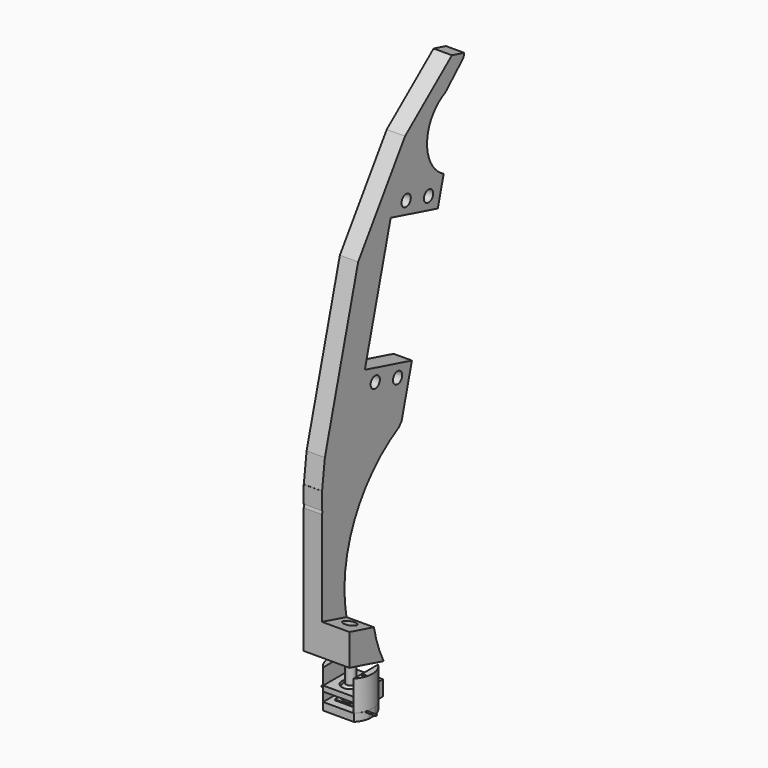
from build123d import *

# Parameters (mm, degrees)
CYLINDER002_R               = 0.25
CYLINDER002_DEPTH           = 10
CYLINDER002_PITCH_ANGLE     = 90
CYLINDER001_R               = 0.25
CYLINDER001_DEPTH           = 10
CYLINDER001_PITCH_ANGLE     = 90
BOX_W                       = 6.5
BOX_H                       = 4.8
BOX_DEPTH                   = 1
BOX004_W                    = 10
BOX004_H                    = 3
BOX004_DEPTH                = 5
CYLINDER_R                  = 1.5
CYLINDER_DEPTH              = 10
CYLINDER008_R               = 7.1
CYLINDER008_DEPTH           = 10
BOX005_W                    = 21
BOX005_H                    = 17
BOX005_DEPTH                = 8
CYLINDER005_R               = 2.5
CYLINDER005_DEPTH           = 10
CYLINDER004_R               = 0.25
CYLINDER004_DEPTH           = 10
CYLINDER004_PITCH_ANGLE     = 90
CYLINDER003_R               = 0.25
CYLINDER003_DEPTH           = 10
CYLINDER003_PITCH_ANGLE     = 90
BOX002_W                    = 6.5
BOX002_H                    = 4.8
BOX002_DEPTH                = 1
BOX003_W                    = 10
BOX003_H                    = 12
BOX003_DEPTH                = 3
BOX001_W                    = 14
BOX001_H                    = 10
BOX001_DEPTH                = 7.25
CYLINDER010_R               = 0.5
CYLINDER010_DEPTH           = 13
CYLINDER009_R               = 0.5
CYLINDER009_DEPTH           = 13
CYLINDER007_R               = 7.1
CYLINDER007_DEPTH           = 10
BOX006_W                    = 21
BOX006_H                    = 17
BOX006_DEPTH                = 12
BOX007_W                    = 10
BOX007_H                    = 20
BOX007_DEPTH                = 10
CYLINDER006_R               = 7.1
CYLINDER006_DEPTH           = 10
CYLINDER018_R               = 2
CYLINDER018_DEPTH           = 18
CYLINDER018_PITCH_ANGLE     = 90
CYLINDER018_PLACEMENT_ANGLE = 17
BOX022_W                    = 65
BOX022_H                    = 11
BOX022_DEPTH                = 20
BOX022_PLACEMENT_ANGLE      = 15
CYLINDER017_R               = 43
CYLINDER017_DEPTH           = 19
BOX020_W                    = 10
BOX020_H                    = 21
BOX020_DEPTH                = 10
BOX021_W                    = 26
BOX021_H                    = 23
BOX021_DEPTH                = 13
CYLINDER011_R               = 1.9
CYLINDER011_DEPTH           = 12
CYLINDER012_R               = 1.9
CYLINDER012_DEPTH           = 12
CYLINDER013_R               = 1.9
CYLINDER013_DEPTH           = 12
CYLINDER014_R               = 1.9
CYLINDER014_DEPTH           = 12
BOX008_W                    = 41
BOX008_H                    = 20
BOX008_DEPTH                = 12
BOX019_W                    = 10
BOX019_H                    = 10
BOX019_DEPTH                = 10
BOX019_PLACEMENT_ANGLE      = 8
BOX018_W                    = 14
BOX018_H                    = 10
BOX018_DEPTH                = 10
BOX018_PLACEMENT_ANGLE      = 16
BOX017_W                    = 65
BOX017_H                    = 11
BOX017_DEPTH                = 10
BOX017_PLACEMENT_ANGLE      = 15
BOX016_W                    = 76
BOX016_H                    = 10
BOX016_DEPTH                = 10
BOX015_W                    = 49
BOX015_H                    = 10
BOX015_DEPTH                = 10
BOX015_PLACEMENT_ANGLE      = -19
BOX014_W                    = 53
BOX014_H                    = 10
BOX014_DEPTH                = 10
BOX014_PLACEMENT_ANGLE      = -36
BOX013_W                    = 13
BOX013_H                    = 11
BOX013_DEPTH                = 10
BOX012_W                    = 23
BOX012_H                    = 17
BOX012_DEPTH                = 10
BOX011_W                    = 41
BOX011_H                    = 6
BOX011_DEPTH                = 10
CYLINDER016_R               = 43
CYLINDER016_DEPTH           = 10
CYLINDER015_R               = 13
CYLINDER015_DEPTH           = 10
BOX010_W                    = 37
BOX010_H                    = 8
BOX010_DEPTH                = 12
BOX009_W                    = 184
BOX009_H                    = 34
BOX009_DEPTH                = 6
CHAMFER_SIZE                = 6
CHAMFER001_SIZE             = 1
FUSION007_ROLL_ANGLE        = -90
FUSION007_PITCH_ANGLE       = 75
FUSION007_PLACEMENT_ANGLE   = -90


with BuildPart() as cylinder002:
    # Cylinder002 → Cylinder002 (new body)
    with BuildSketch(Plane.XY):
        Circle(CYLINDER002_R)
    extrude(amount=CYLINDER002_DEPTH)


with BuildPart() as cylinder002_1:
    # Cylinder002 pitch: moved
    add(cylinder002.part.rotate(Axis((0, 0, 0), (0, 1, 0)), CYLINDER002_PITCH_ANGLE))


with BuildPart() as cylinder002_2:
    # Cylinder002 placement: moved
    add(cylinder002_1.part.moved(Location((0, -2, -3.7))))


with BuildPart() as fusion002:
    # Cylinder001 → Cylinder001 (new body)
    with BuildSketch(Plane.XY):
        Circle(CYLINDER001_R)
    extrude(amount=CYLINDER001_DEPTH)


with BuildPart() as fusion002_1:
    # Cylinder001 pitch: moved
    add(fusion002.part.rotate(Axis((0, 0, 0), (0, 1, 0)), CYLINDER001_PITCH_ANGLE))


with BuildPart() as fusion002_2:
    # Cylinder001 placement: moved
    add(fusion002_1.part.moved(Location((-11, 2, -3.7))))

    # Fusion002: union Cylinder002
    add(cylinder002_2.part)


with BuildPart() as switch:
    # Box → Box (new body)
    with BuildSketch(Plane(origin=(-3.25, -2.4, -4.2), x_dir=(1, 0, 0), z_dir=(0, 0, 1))):
        with Locations((3.25, 2.4)):
            Rectangle(BOX_W, BOX_H)
    extrude(amount=BOX_DEPTH)

    # Fusion003: union Fusion002
    add(fusion002_2.part)


with BuildPart() as cube004:
    # Box004 → Box004 (new body)
    with BuildSketch(Plane(origin=(-5, 4, -3.55), x_dir=(1, 0, 0), z_dir=(0, 0, 1))):
        with Locations((5, 1.5)):
            Rectangle(BOX004_W, BOX004_H)
    extrude(amount=BOX004_DEPTH)


with BuildPart() as cylinder:
    # Cylinder → Cylinder (new body)
    with BuildSketch(Plane.XY):
        Circle(CYLINDER_R)
    extrude(amount=CYLINDER_DEPTH)


with BuildPart() as ball_and_screw:
    # Sphere → Sphere (revolve)
    with BuildSketch(Plane.XZ):
        with BuildLine():
            ThreePointArc((0, -3), (3, 0), (0, 3))
            Line((0, 3), (0, -3))
        make_face()
    revolve(axis=Axis((0, 0, 0), (0, 0, 1)))

    # Fusion005: union Cylinder
    add(cylinder.part)


with BuildPart() as ball_and_screw_1:
    # Fusion005 placement: moved
    add(ball_and_screw.part.moved(Location((0, 0, -1))))


with BuildPart() as cylinder008:
    # Cylinder008 → Cylinder008 (new body)
    with BuildSketch(Plane.XY.offset(-6.5)):
        Circle(CYLINDER008_R)
    extrude(amount=CYLINDER008_DEPTH)


with BuildPart() as cube005:
    # Box005 → Box005 (new body)
    with BuildSketch(Plane(origin=(-9, -7, -3.5), x_dir=(1, 0, 0), z_dir=(0, 0, 1))):
        with Locations((10.5, 8.5)):
            Rectangle(BOX005_W, BOX005_H)
    extrude(amount=BOX005_DEPTH)


with BuildPart() as cylinder005:
    # Cylinder005 → Cylinder005 (new body)
    with BuildSketch(Plane.XY.offset(0.5)):
        Circle(CYLINDER005_R)
    extrude(amount=CYLINDER005_DEPTH)


with BuildPart() as fusion004:
    # Sphere001 → Sphere001 (revolve)
    with BuildSketch(Plane.XZ):
        with BuildLine():
            ThreePointArc((0, -3.1), (3.1, 0), (0, 3.1))
            Line((0, 3.1), (0, -3.1))
        make_face()
    revolve(axis=Axis((0, 0, 0), (0, 0, 1)))

    # Fusion004: union Cylinder005
    add(cylinder005.part)


with BuildPart() as cylinder004:
    # Cylinder004 → Cylinder004 (new body)
    with BuildSketch(Plane.XY):
        Circle(CYLINDER004_R)
    extrude(amount=CYLINDER004_DEPTH)


with BuildPart() as cylinder004_1:
    # Cylinder004 pitch: moved
    add(cylinder004.part.rotate(Axis((0, 0, 0), (0, 1, 0)), CYLINDER004_PITCH_ANGLE))


with BuildPart() as cylinder004_2:
    # Cylinder004 placement: moved
    add(cylinder004_1.part.moved(Location((0, -2, -3.7))))


with BuildPart() as fusion:
    # Cylinder003 → Cylinder003 (new body)
    with BuildSketch(Plane.XY):
        Circle(CYLINDER003_R)
    extrude(amount=CYLINDER003_DEPTH)


with BuildPart() as fusion_1:
    # Cylinder003 pitch: moved
    add(fusion.part.rotate(Axis((0, 0, 0), (0, 1, 0)), CYLINDER003_PITCH_ANGLE))


with BuildPart() as fusion_2:
    # Cylinder003 placement: moved
    add(fusion_1.part.moved(Location((-11, 2, -3.7))))

    # Fusion: union Cylinder004
    add(cylinder004_2.part)


with BuildPart() as fusion001:
    # Box002 → Box002 (new body)
    with BuildSketch(Plane(origin=(-3.25, -2.4, -4.2), x_dir=(1, 0, 0), z_dir=(0, 0, 1))):
        with Locations((3.25, 2.4)):
            Rectangle(BOX002_W, BOX002_H)
    extrude(amount=BOX002_DEPTH)

    # Fusion001: union Fusion
    add(fusion_2.part)


with BuildPart() as cube003:
    # Box003 → Box003 (new body)
    with BuildSketch(Plane(origin=(-5, -6, -3.5), x_dir=(1, 0, 0), z_dir=(0, 0, 1))):
        with Locations((5, 6)):
            Rectangle(BOX003_W, BOX003_H)
    extrude(amount=BOX003_DEPTH)


with BuildPart() as cut001:
    # Box001 → Box001 (new body)
    with BuildSketch(Plane(origin=(-7, -5, -6), x_dir=(1, 0, 0), z_dir=(0, 0, 1))):
        with Locations((7, 5)):
            Rectangle(BOX001_W, BOX001_H)
    extrude(amount=BOX001_DEPTH)

    # Cut: cut Cube003
    add(cube003.part, mode=Mode.SUBTRACT)

    # Cut001: cut Fusion001
    add(fusion001.part, mode=Mode.SUBTRACT)


with BuildPart() as common002:
    # Cut003 base: copy of Cut001
    add(cut001.part)

    # Cut003: cut Fusion004
    add(fusion004.part, mode=Mode.SUBTRACT)

    # Cut004: cut Cube005
    add(cube005.part, mode=Mode.SUBTRACT)

    # Common002: intersect Cylinder008
    add(cylinder008.part, mode=Mode.INTERSECT)


with BuildPart() as cylinder010:
    # Cylinder010 → Cylinder010 (new body)
    with BuildSketch(Plane(origin=(6, -2, -4), x_dir=(1, 0, 0), z_dir=(0, 0, 1))):
        Circle(CYLINDER010_R)
    extrude(amount=CYLINDER010_DEPTH)


with BuildPart() as cylinder009:
    # Cylinder009 → Cylinder009 (new body)
    with BuildSketch(Plane(origin=(-6, 2, -4), x_dir=(1, 0, 0), z_dir=(0, 0, 1))):
        Circle(CYLINDER009_R)
    extrude(amount=CYLINDER009_DEPTH)


with BuildPart() as cylinder007:
    # Cylinder007 → Cylinder007 (new body)
    with BuildSketch(Plane.XY.offset(-3.5)):
        Circle(CYLINDER007_R)
    extrude(amount=CYLINDER007_DEPTH)


with BuildPart() as cube006:
    # Box006 → Box006 (new body)
    with BuildSketch(Plane(origin=(-9, -7, -3.5), x_dir=(1, 0, 0), z_dir=(0, 0, 1))):
        with Locations((10.5, 8.5)):
            Rectangle(BOX006_W, BOX006_H)
    extrude(amount=BOX006_DEPTH)


with BuildPart() as common001:
    # Cut002 base: copy of Cut001
    add(cut001.part)

    # Cut002: cut Fusion004
    add(fusion004.part, mode=Mode.SUBTRACT)

    # Common: intersect Cube006
    add(cube006.part, mode=Mode.INTERSECT)

    # Common001: intersect Cylinder007
    add(cylinder007.part, mode=Mode.INTERSECT)


with BuildPart() as cube007:
    # Box007 → Box007 (new body)
    with BuildSketch(Plane(origin=(-5, -9, -3.5), x_dir=(1, 0, 0), z_dir=(0, 0, 1))):
        with Locations((5, 10)):
            Rectangle(BOX007_W, BOX007_H)
    extrude(amount=BOX007_DEPTH)


with BuildPart() as cut007:
    # Cylinder006 → Cylinder006 (new body)
    with BuildSketch(Plane.XY.offset(-3.5)):
        Circle(CYLINDER006_R)
    extrude(amount=CYLINDER006_DEPTH)

    # Cut005: cut Cube007
    add(cube007.part, mode=Mode.SUBTRACT)

    # Fusion006: union Common001
    add(common001.part)

    # Cut006: cut Cylinder009
    add(cylinder009.part, mode=Mode.SUBTRACT)

    # Cut007: cut Cylinder010
    add(cylinder010.part, mode=Mode.SUBTRACT)


with BuildPart() as cylinder018:
    # Cylinder018 → Cylinder018 (new body)
    with BuildSketch(Plane.XY):
        Circle(CYLINDER018_R)
    extrude(amount=CYLINDER018_DEPTH)


with BuildPart() as cylinder018_1:
    # Cylinder018 pitch: moved
    add(cylinder018.part.rotate(Axis((0, 0, 0), (0, 1, 0)), CYLINDER018_PITCH_ANGLE))


with BuildPart() as cylinder018_2:
    # Cylinder018 placement: moved
    add(cylinder018_1.part.moved(Location((146.075979, 19.182766, 10))).rotate(Axis((146.075979, 19.182766, 10), (0, 0, 1)), CYLINDER018_PLACEMENT_ANGLE))


with BuildPart() as cube022:
    # Box022 → Box022 (new body)
    with BuildSketch(Plane.XY):
        with Locations((32.5, 5.5)):
            Rectangle(BOX022_W, BOX022_H)
    extrude(amount=BOX022_DEPTH)


with BuildPart() as cube022_1:
    # Box022 placement: moved
    add(cube022.part.moved(Location((115, -7, 0))).rotate(Axis((115, -7, 0), (0, 0, 1)), BOX022_PLACEMENT_ANGLE))


with BuildPart() as cylinder017:
    # Cylinder017 → Cylinder017 (new body)
    with BuildSketch(Plane(origin=(132, 63, 0), x_dir=(1, 0, 0), z_dir=(0, 0, 1))):
        Circle(CYLINDER017_R)
    extrude(amount=CYLINDER017_DEPTH)


with BuildPart() as cut028:
    # Box020 → Box020 (new body)
    with BuildSketch(Plane(origin=(151, 12, 5), x_dir=(1, 0, 0), z_dir=(0, 0, 1))):
        with Locations((5, 10.5)):
            Rectangle(BOX020_W, BOX020_H)
    extrude(amount=BOX020_DEPTH)

    # Cut026: cut Cylinder017
    add(cylinder017.part, mode=Mode.SUBTRACT)

    # Cut027: cut Cube022
    add(cube022_1.part, mode=Mode.SUBTRACT)

    # Cut028: cut Cylinder018
    add(cylinder018_2.part, mode=Mode.SUBTRACT)


with BuildPart() as cube021:
    # Box021 → Box021 (new body)
    with BuildSketch(Plane(origin=(161, 15, -3), x_dir=(1, 0, 0), z_dir=(0, 0, 1))):
        with Locations((13, 11.5)):
            Rectangle(BOX021_W, BOX021_H)
    extrude(amount=BOX021_DEPTH)


with BuildPart() as cylinder011:
    # Cylinder011 → Cylinder011 (new body)
    with BuildSketch(Plane(origin=(38, 19.5, -1), x_dir=(1, 0, 0), z_dir=(0, 0, 1))):
        Circle(CYLINDER011_R)
    extrude(amount=CYLINDER011_DEPTH)


with BuildPart() as cylinder012:
    # Cylinder012 → Cylinder012 (new body)
    with BuildSketch(Plane(origin=(38, 29, -1), x_dir=(1, 0, 0), z_dir=(0, 0, 1))):
        Circle(CYLINDER012_R)
    extrude(amount=CYLINDER012_DEPTH)


with BuildPart() as cylinder013:
    # Cylinder013 → Cylinder013 (new body)
    with BuildSketch(Plane(origin=(87, 29, -1), x_dir=(1, 0, 0), z_dir=(0, 0, 1))):
        Circle(CYLINDER013_R)
    extrude(amount=CYLINDER013_DEPTH)


with BuildPart() as cylinder014:
    # Cylinder014 → Cylinder014 (new body)
    with BuildSketch(Plane(origin=(87, 19.5, -1), x_dir=(1, 0, 0), z_dir=(0, 0, 1))):
        Circle(CYLINDER014_R)
    extrude(amount=CYLINDER014_DEPTH)


with BuildPart() as cube008:
    # Box008 → Box008 (new body)
    with BuildSketch(Plane(origin=(42, 14, -1), x_dir=(1, 0, 0), z_dir=(0, 0, 1))):
        with Locations((20.5, 10)):
            Rectangle(BOX008_W, BOX008_H)
    extrude(amount=BOX008_DEPTH)


with BuildPart() as cube019:
    # Box019 → Box019 (new body)
    with BuildSketch(Plane.XY):
        with Locations((5, 5)):
            Rectangle(BOX019_W, BOX019_H)
    extrude(amount=BOX019_DEPTH)


with BuildPart() as cube019_1:
    # Box019 placement: moved
    add(cube019.part.moved(Location((106, -7, 0))).rotate(Axis((106, -7, 0), (0, 0, 1)), BOX019_PLACEMENT_ANGLE))


with BuildPart() as cube018:
    # Box018 → Box018 (new body)
    with BuildSketch(Plane.XY):
        with Locations((7, 5)):
            Rectangle(BOX018_W, BOX018_H)
    extrude(amount=BOX018_DEPTH)


with BuildPart() as cube018_1:
    # Box018 placement: moved
    add(cube018.part.moved(Location((174, 10, 0))).rotate(Axis((174, 10, 0), (0, 0, 1)), BOX018_PLACEMENT_ANGLE))


with BuildPart() as cube017:
    # Box017 → Box017 (new body)
    with BuildSketch(Plane.XY):
        with Locations((32.5, 5.5)):
            Rectangle(BOX017_W, BOX017_H)
    extrude(amount=BOX017_DEPTH)


with BuildPart() as cube017_1:
    # Box017 placement: moved
    add(cube017.part.moved(Location((115, -7, 0))).rotate(Axis((115, -7, 0), (0, 0, 1)), BOX017_PLACEMENT_ANGLE))


with BuildPart() as cube016:
    # Box016 → Box016 (new body)
    with BuildSketch(Plane(origin=(46, -7, 0), x_dir=(1, 0, 0), z_dir=(0, 0, 1))):
        with Locations((38, 5)):
            Rectangle(BOX016_W, BOX016_H)
    extrude(amount=BOX016_DEPTH)


with BuildPart() as cube015:
    # Box015 → Box015 (new body)
    with BuildSketch(Plane.XY):
        with Locations((24.5, 5)):
            Rectangle(BOX015_W, BOX015_H)
    extrude(amount=BOX015_DEPTH)


with BuildPart() as cube015_1:
    # Box015 placement: moved
    add(cube015.part.moved(Location((16, 5, 0))).rotate(Axis((16, 5, 0), (0, 0, 1)), BOX015_PLACEMENT_ANGLE))


with BuildPart() as cube014:
    # Box014 → Box014 (new body)
    with BuildSketch(Plane.XY):
        with Locations((26.5, 5)):
            Rectangle(BOX014_W, BOX014_H)
    extrude(amount=BOX014_DEPTH)


with BuildPart() as cube014_1:
    # Box014 placement: moved
    add(cube014.part.moved(Location((-16, 28, 0))).rotate(Axis((-16, 28, 0), (0, 0, 1)), BOX014_PLACEMENT_ANGLE))


with BuildPart() as cube013:
    # Box013 → Box013 (new body)
    with BuildSketch(Plane(origin=(0, 8, 0), x_dir=(1, 0, 0), z_dir=(0, 0, 1))):
        with Locations((6.5, 5.5)):
            Rectangle(BOX013_W, BOX013_H)
    extrude(amount=BOX013_DEPTH)


with BuildPart() as cube012:
    # Box012 → Box012 (new body)
    with BuildSketch(Plane(origin=(161, 0, 0), x_dir=(1, 0, 0), z_dir=(0, 0, 1))):
        with Locations((11.5, 8.5)):
            Rectangle(BOX012_W, BOX012_H)
    extrude(amount=BOX012_DEPTH)


with BuildPart() as cube011:
    # Box011 → Box011 (new body)
    with BuildSketch(Plane(origin=(120, 0, 0), x_dir=(1, 0, 0), z_dir=(0, 0, 1))):
        with Locations((20.5, 3)):
            Rectangle(BOX011_W, BOX011_H)
    extrude(amount=BOX011_DEPTH)


with BuildPart() as cylinder016:
    # Cylinder016 → Cylinder016 (new body)
    with BuildSketch(Plane(origin=(132, 63, 0), x_dir=(1, 0, 0), z_dir=(0, 0, 1))):
        Circle(CYLINDER016_R)
    extrude(amount=CYLINDER016_DEPTH)


with BuildPart() as cylinder015:
    # Cylinder015 → Cylinder015 (new body)
    with BuildSketch(Plane(origin=(20, 37, 0), x_dir=(1, 0, 0), z_dir=(0, 0, 1))):
        Circle(CYLINDER015_R)
    extrude(amount=CYLINDER015_DEPTH)


with BuildPart() as cube010:
    # Box010 → Box010 (new body)
    with BuildSketch(Plane.XY):
        with Locations((18.5, 4)):
            Rectangle(BOX010_W, BOX010_H)
    extrude(amount=BOX010_DEPTH)


with BuildPart() as fusion007:
    # Box009 → Box009 (new body)
    with BuildSketch(Plane.XY):
        with Locations((92, 17)):
            Rectangle(BOX009_W, BOX009_H)
    extrude(amount=BOX009_DEPTH)

    # Cut008: cut Cube010
    add(cube010.part, mode=Mode.SUBTRACT)

    # Cut009: cut Cylinder015
    add(cylinder015.part, mode=Mode.SUBTRACT)

    # Cut010: cut Cylinder016
    add(cylinder016.part, mode=Mode.SUBTRACT)

    # Cut011: cut Cube011
    add(cube011.part, mode=Mode.SUBTRACT)

    # Cut012: cut Cube012
    add(cube012.part, mode=Mode.SUBTRACT)

    # Cut013: cut Cube013
    add(cube013.part, mode=Mode.SUBTRACT)

    # Cut014: cut Cube014
    add(cube014_1.part, mode=Mode.SUBTRACT)

    # Cut015: cut Cube015
    add(cube015_1.part, mode=Mode.SUBTRACT)

    # Cut016: cut Cube016
    add(cube016.part, mode=Mode.SUBTRACT)

    # Cut017: cut Cube017
    add(cube017_1.part, mode=Mode.SUBTRACT)

    # Cut018: cut Cube018
    add(cube018_1.part, mode=Mode.SUBTRACT)

    # Cut019: cut Cube019
    add(cube019_1.part, mode=Mode.SUBTRACT)

    # Cut020: cut Cube008
    add(cube008.part, mode=Mode.SUBTRACT)

    # Cut021: cut Cylinder014
    add(cylinder014.part, mode=Mode.SUBTRACT)

    # Cut022: cut Cylinder013
    add(cylinder013.part, mode=Mode.SUBTRACT)

    # Cut023: cut Cylinder012
    add(cylinder012.part, mode=Mode.SUBTRACT)

    # Cut024: cut Cylinder011
    add(cylinder011.part, mode=Mode.SUBTRACT)

    # Chamfer
    chamfer_edges = [fusion007.edges().sort_by_distance(p)[0] for p in [
        (7.350889, 34, 3),
    ]]
    chamfer(chamfer_edges, length=CHAMFER_SIZE)

    # Chamfer001
    chamfer001_edges = [fusion007.edges().sort_by_distance(p)[0] for p in [
        (100.250984, 34, 3),
    ]]
    chamfer(chamfer001_edges, length=CHAMFER001_SIZE)

    # Cut025: cut Cube021
    add(cube021.part, mode=Mode.SUBTRACT)

    # Fusion007: union Cut028
    add(cut028.part)


with BuildPart() as fusion007_1:
    # Fusion007 roll: moved
    add(fusion007.part.rotate(Axis((0, 0, 0), (1, 0, 0)), FUSION007_ROLL_ANGLE))


with BuildPart() as fusion007_2:
    # Fusion007 pitch: moved
    add(fusion007_1.part.rotate(Axis((0, 0, 0), (0, 1, 0)), FUSION007_PITCH_ANGLE))


with BuildPart() as fusion007_3:
    # Fusion007 placement: moved
    add(fusion007_2.part.moved(Location((-10, 18.782944, 170.160229))).rotate(Axis((-10, 18.782944, 170.160229), (0, 0, 1)), FUSION007_PLACEMENT_ANGLE))


solid = Compound([switch.part, cube004.part, ball_and_screw_1.part, common002.part, cut007.part, fusion007_3.part])
